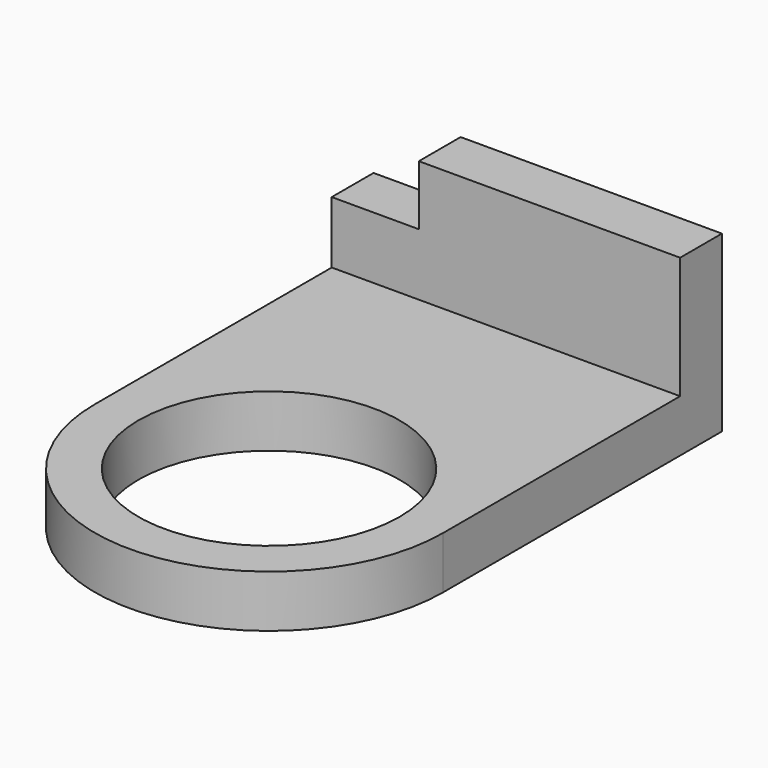
from build123d import *

# Parameters (mm, degrees)
F1_DEPTH = 25.4
F2_W     = 43.18
F2_H     = 17.78
F3_DEPTH = 50.801
F4_W     = 12.7
F4_H     = 8.7366292986
F5_DEPTH = 7.621
F6_R     = 19.05
F7_DEPTH = 7.621


with BuildPart() as f1:
    # F0 (on Top) → F1 (new body)
    with BuildSketch(Plane.XY):
        with BuildLine():
            Line((25.4, 25.4), (-25.4, 25.4))
            Line((-25.4, 25.4), (-25.4, -25.4))
            ThreePointArc((-25.4, -25.4), (0, -50.8), (25.4, -25.4))
            Line((25.4, -25.4), (25.4, 25.4))
        make_face()
    extrude(amount=F1_DEPTH)

    # F2 (on face) → F3 (cut, through all)
    with BuildSketch(Plane.YZ.offset(25.4)):
        with Locations((-3.81, 16.51)):
            Rectangle(F2_W, F2_H)
        Polygon((17.78, 33.02), (-60.672249645, 33.02), (-60.672249645, 7.62), (-25.4, 7.62), (-25.4, 25.4), (17.78, 25.4), align=None)
    extrude(amount=-F3_DEPTH, mode=Mode.SUBTRACT)

    # F4 (on face) → F5 (cut, through all)
    with BuildSketch(Plane.XZ.offset(-17.78)):
        with Locations((-19.05, 21.0316853507)):
            Rectangle(F4_W, F4_H)
    extrude(amount=-F5_DEPTH, mode=Mode.SUBTRACT)

    # F6 (on face) → F7 (cut, through all)
    with BuildSketch(Plane.XY.offset(7.62)):
        with Locations((0, -25.4)):
            Circle(F6_R)
    extrude(amount=-F7_DEPTH, mode=Mode.SUBTRACT)


solid = f1.part
